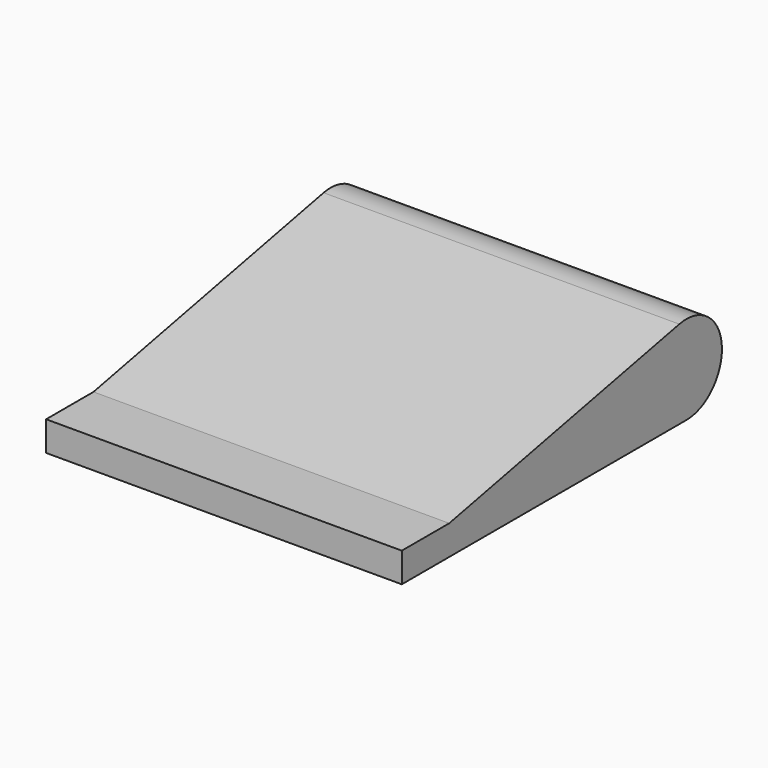
from build123d import *

# Parameters (mm, degrees)
F1_DEPTH = 9.525


with BuildPart() as f1:
    # F0 (on Right) → F1 (new body, symmetric)
    with BuildSketch(Plane.YZ):
        with BuildLine():
            Line((-19.05, -2.38125), (0, -2.38125))
            ThreePointArc((0, -2.38125), (2.369314, 0.238128), (-0.473869, 2.333624))
            Line((-0.473869, 2.333624), (-15.875, -0.79375))
            Line((-15.875, -0.79375), (-19.05, -0.79375))
            Line((-19.05, -0.79375), (-19.05, -2.38125))
        make_face()
    extrude(amount=F1_DEPTH, both=True)


solid = f1.part
